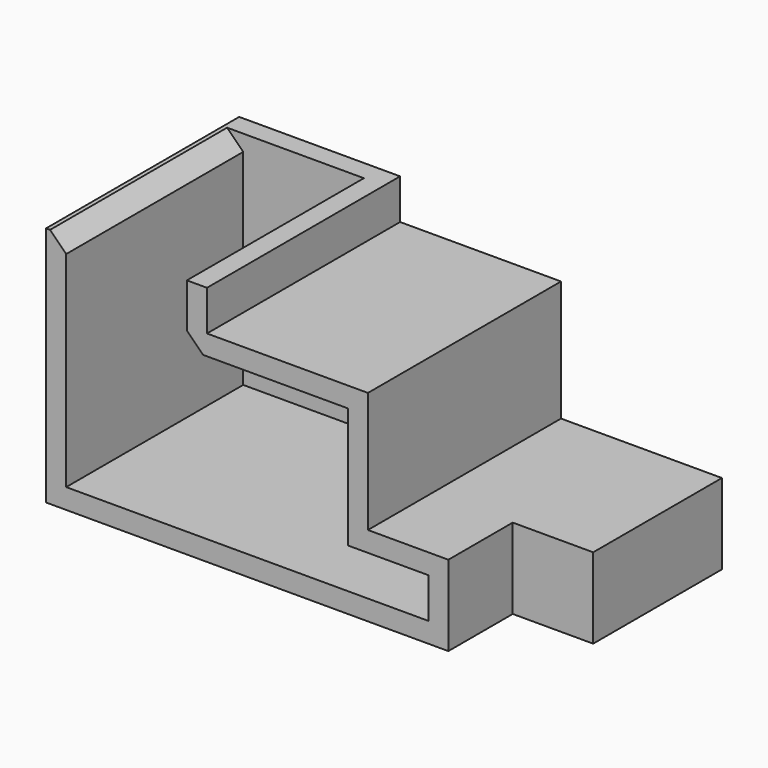
from build123d import *

# Parameters (mm, degrees)
F1_DEPTH = 30
F2_W     = 10
F2_H     = 10
F3_DEPTH = 10
F4_T     = -2.5
F5_SIZE  = 2
F6_SIZE  = 2


with BuildPart() as f1:
    # F0 (on Front) → F1 (new body)
    with BuildSketch(Plane.XZ):
        Polygon((-60, 0), (0, 0), (0, 10), (-20, 10), (-20, 25), (-40, 25), (-40, 30), (-60, 30), align=None)
    extrude(amount=-F1_DEPTH)

    # F2 (on face) → F3 (cut)
    with BuildSketch(Plane.XZ):
        with Locations((-5, 5)):
            Rectangle(F2_W, F2_H)
    extrude(amount=-F3_DEPTH, mode=Mode.SUBTRACT)

    # F4
    f4_openings = [f1.faces().sort_by_distance(p)[0] for p in [
        (-50, 15, 30),
        (-38.75, 0, 13.125),
    ]]
    offset(amount=F4_T, openings=f4_openings, kind=Kind.INTERSECTION)

    # F5
    f5_edges = [f1.edges().sort_by_distance(p)[0] for p in [
        (-57.5, 13.75, 30),
    ]]
    chamfer(f5_edges, length=F5_SIZE)

    # F6
    f6_edges = [f1.edges().sort_by_distance(p)[0] for p in [
        (-42.5, 13.75, 22.5),
    ]]
    chamfer(f6_edges, length=F6_SIZE)


solid = f1.part
